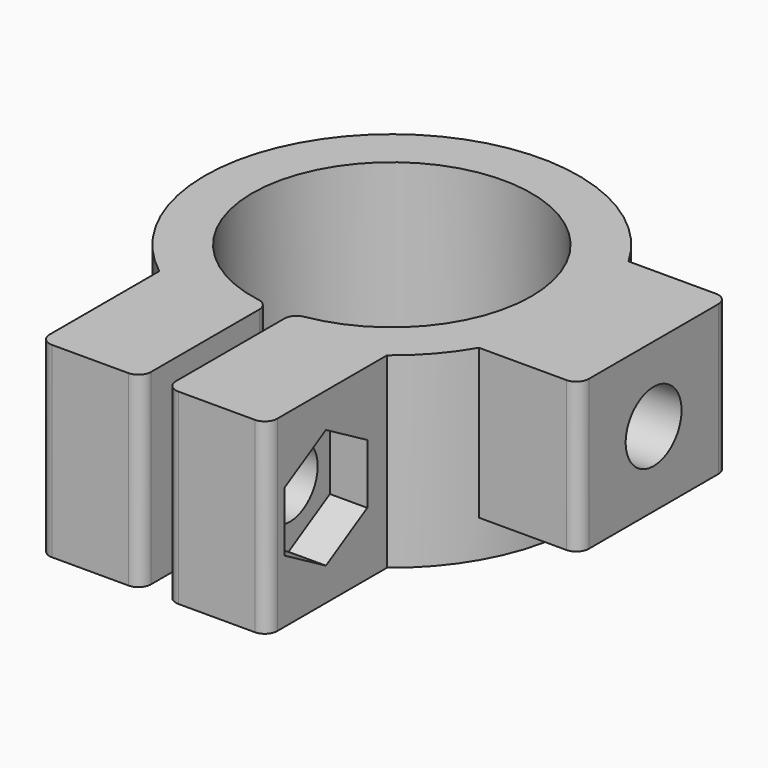
from build123d import *

# Parameters (mm, degrees)
SKETCH_R        = 15
PAD_DEPTH       = 15
SKETCH001_R     = 11.2
POCKET_DEPTH    = 15.001
SKETCH002_W     = 8
SKETCH002_H     = 15
PAD001_DEPTH    = 12
SKETCH003_W     = 18.264062
SKETCH003_H     = 12
PAD002_DEPTH    = 15
SKETCH004_R     = 2.8
POCKET001_DEPTH = 30.133031
POCKET002_DEPTH = 3
SKETCH006_R     = 4.5
POCKET003_DEPTH = 5
SKETCH007_W     = 2
SKETCH007_H     = 28.949347
POCKET004_DEPTH = 15.001
POCKET005_DEPTH = 2.5
SKETCH008_R     = 2.8
POCKET006_DEPTH = 14
FILLET_R        = 1
FILLET001_R     = 1


with BuildPart() as part:
    # Sketch → Pad (new body)
    with BuildSketch(Plane.XY):
        Circle(SKETCH_R)
    extrude(amount=PAD_DEPTH)

    # Sketch001 → Pocket (cut, through all)
    with BuildSketch(Plane.XY.offset(15)):
        Circle(SKETCH001_R)
    extrude(amount=-POCKET_DEPTH, mode=Mode.SUBTRACT)

    # Sketch002 → Pad001 (new body)
    with BuildSketch(Plane.XY.offset(15)):
        with Locations((17, 0)):
            Rectangle(SKETCH002_W, SKETCH002_H)
    extrude(amount=-PAD001_DEPTH)

    # Sketch003 → Pad002 (new body)
    with BuildSketch(Plane.XY.offset(15)):
        with Locations((0, -17.899832)):
            Rectangle(SKETCH003_W, SKETCH003_H)
    extrude(amount=-PAD002_DEPTH)

    # Sketch004 → Pocket001 (cut, through all)
    with BuildSketch(Plane(origin=(-9.132031, 0, 0), x_dir=(0, -1, 0), z_dir=(-1, 0, 0))):
        with Locations((17.899832, 7.5)):
            Circle(SKETCH004_R)
    extrude(amount=-POCKET001_DEPTH, mode=Mode.SUBTRACT)

    # Sketch005 → Pocket002 (cut)
    with BuildSketch(Plane.YZ.offset(9.132031)):
        Polygon((-18.023397, 2.63711), (-13.873397, 5.033113), (-13.873397, 9.825121), (-18.023397, 12.221124), (-22.173397, 9.825121), (-22.173397, 5.033113), align=None)
    extrude(amount=-POCKET002_DEPTH, mode=Mode.SUBTRACT)

    # Sketch006 → Pocket003 (cut)
    with BuildSketch(Plane(origin=(-9.132031, 0, 0), x_dir=(0, -1, 0), z_dir=(-1, 0, 0))):
        with Locations((17.899832, 7.5)):
            Circle(SKETCH006_R)
    extrude(amount=-POCKET003_DEPTH, mode=Mode.SUBTRACT)

    # Sketch007 → Pocket004 (cut, through all)
    with BuildSketch(Plane.XY.offset(15)):
        with Locations((0, -19.659897)):
            Rectangle(SKETCH007_W, SKETCH007_H)
    extrude(amount=-POCKET004_DEPTH, mode=Mode.SUBTRACT)

    # Sketch009 → Pocket005 (cut, symmetric)
    with BuildSketch(Plane(origin=(13, 0, 0), x_dir=(0, -1, 0), z_dir=(-1, 0, 0))):
        Polygon((2.396004, 4.85), (4.792007, 9), (2.396004, 13.15), (-2.396004, 13.15), (-4.792007, 9), (-2.396004, 4.85), align=None)
    extrude(amount=POCKET005_DEPTH, both=True, mode=Mode.SUBTRACT)

    # Sketch008 → Pocket006 (cut)
    with BuildSketch(Plane.YZ.offset(21)):
        with Locations((0, 9)):
            Circle(SKETCH008_R)
    extrude(amount=-POCKET006_DEPTH, mode=Mode.SUBTRACT)

    # Fillet
    fillet_edges = [part.edges().sort_by_distance(p)[0] for p in [
        (21, 7.5, 9),
        (21, -7.5, 9),
        (9.132031, -23.899832, 7.5),
        (1, -23.899832, 7.5),
        (-1, -23.899832, 7.5),
        (-9.132031, -23.899832, 7.5),
    ]]
    fillet(fillet_edges, radius=FILLET_R)

    # Fillet001
    fillet001_edges = [part.edges().sort_by_distance(p)[0] for p in [
        (1, -11.155268, 7.5),
        (-1, -11.155268, 7.5),
    ]]
    fillet(fillet001_edges, radius=FILLET001_R)


solid = part.part
